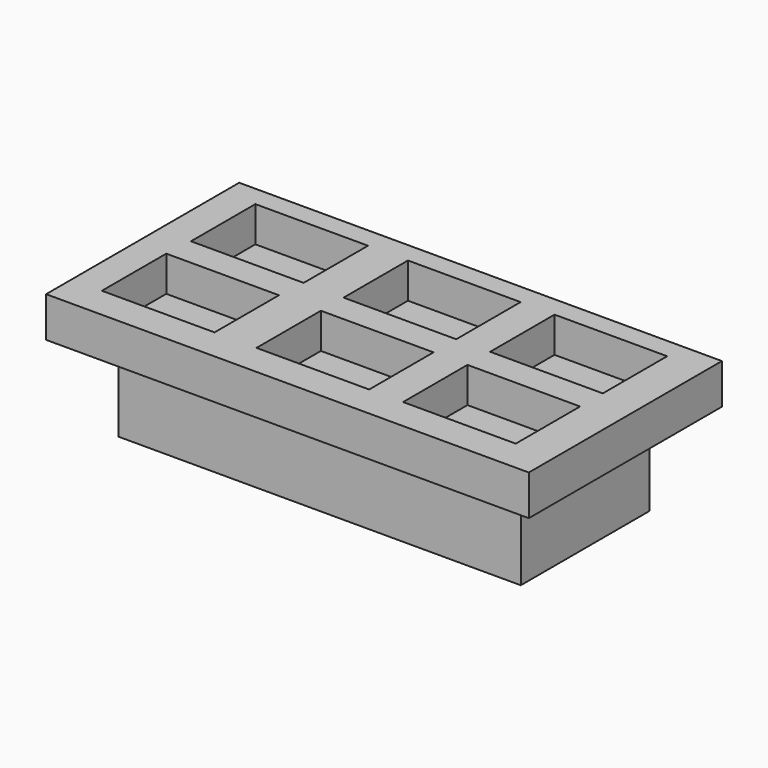
from build123d import *

# Parameters (mm, degrees)
F0_W     = 76.2
F0_H     = 38.1
F1_DEPTH = 20.32
F2_W     = 63.5
F2_H     = 6.35
F3_DEPTH = 13.97
F4_W     = 17.78
F4_H     = 6.35
F5_DEPTH = 5.588


with BuildPart() as f1:
    # F0 (on Top) → F1 (new body)
    with BuildSketch(Plane.XY):
        Rectangle(F0_W, F0_H)
    extrude(amount=F1_DEPTH)

    # F2 (on face) → F3 (cut)
    with BuildSketch(Plane(origin=(0, 0, 0), x_dir=(1, 0, 0), z_dir=(0, 0, -1))):
        Polygon((-31.75, -12.7), (-31.75, 12.7), (-31.75, 19.05), (-38.1, 19.05), (-38.1, -19.05), (-31.75, -19.05), align=None)
        with Locations((0, 15.875)):
            Rectangle(F2_W, F2_H)
        Polygon((31.75, 19.05), (31.75, 12.7), (31.75, -12.7), (31.75, -19.05), (38.1, -19.05), (38.1, 19.05), align=None)
        with Locations((0, -15.875)):
            Rectangle(F2_W, F2_H)
    extrude(amount=-F3_DEPTH, mode=Mode.SUBTRACT)

    # F4 (on face) → F5 (cut)
    with BuildSketch(Plane.XY.offset(20.32)):
        with Locations((23.13825, 12.661981)):
            Rectangle(F4_W, F4_H)
        with Locations((23.13825, 6.311981)):
            Rectangle(F4_W, F4_H)
        with Locations((23.13825, -4.518458)):
            Rectangle(F4_W, F4_H)
        with Locations((23.13825, -10.868458)):
            Rectangle(F4_W, F4_H)
        with Locations((0, -10.868458)):
            Rectangle(F4_W, F4_H)
        with Locations((0, -4.518458)):
            Rectangle(F4_W, F4_H)
        with Locations((-24.402459, -10.868458)):
            Rectangle(F4_W, F4_H)
        with Locations((-24.402459, -4.518458)):
            Rectangle(F4_W, F4_H)
        with Locations((-24.085267, 6.311981)):
            Rectangle(F4_W, F4_H)
        with Locations((-24.085267, 12.661981)):
            Rectangle(F4_W, F4_H)
        with Locations((0, 12.661981)):
            Rectangle(F4_W, F4_H)
        with Locations((0, 6.311981)):
            Rectangle(F4_W, F4_H)
    extrude(amount=-F5_DEPTH, mode=Mode.SUBTRACT)


solid = f1.part
